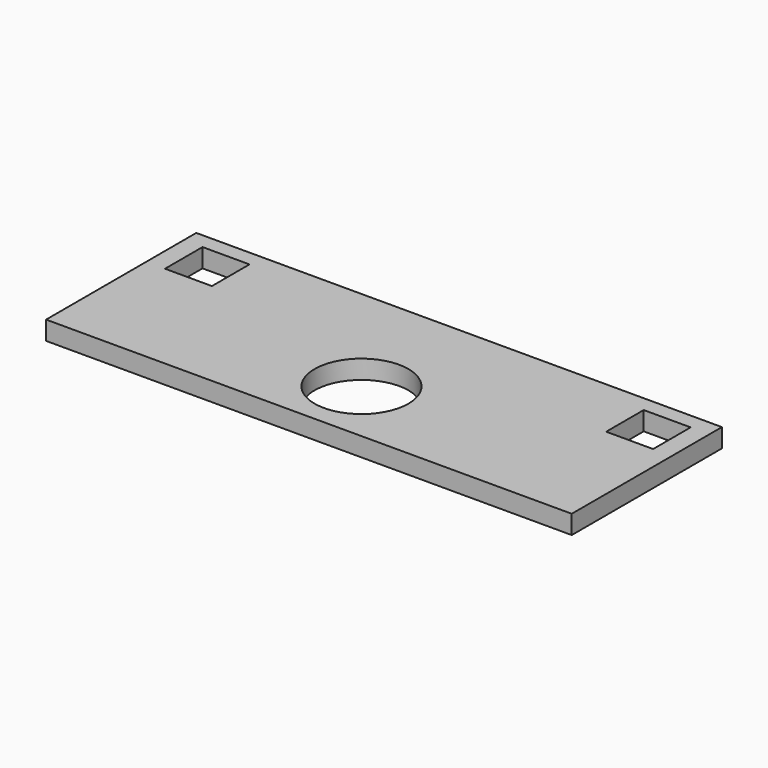
from build123d import *

# Parameters (mm, degrees)
F0_W     = 140
F0_H     = 50
F1_DEPTH = 5
F2_W     = 12.5
F2_H     = 12.5
F3_DEPTH = 25
F4_R     = 12.5
F5_DEPTH = 25


with BuildPart() as f1:
    # F0 (on Top) → F1 (new body)
    with BuildSketch(Plane.XY):
        with Locations((2.230102, -4.090368)):
            Rectangle(F0_W, F0_H)
    extrude(amount=F1_DEPTH)

    # F2 (on face) → F3 (cut)
    with BuildSketch(Plane.XY.offset(5)):
        with Locations((-56.519898, 10.497632)):
            Rectangle(F2_W, F2_H)
        with Locations((60.980102, 10.497632)):
            Rectangle(F2_W, F2_H)
    extrude(amount=-F3_DEPTH, mode=Mode.SUBTRACT)

    # F4 (on face) → F5 (cut)
    with BuildSketch(Plane.XY.offset(5)):
        with Locations((2.230102, -11.590368)):
            Circle(F4_R)
    extrude(amount=-F5_DEPTH, mode=Mode.SUBTRACT)


solid = f1.part
